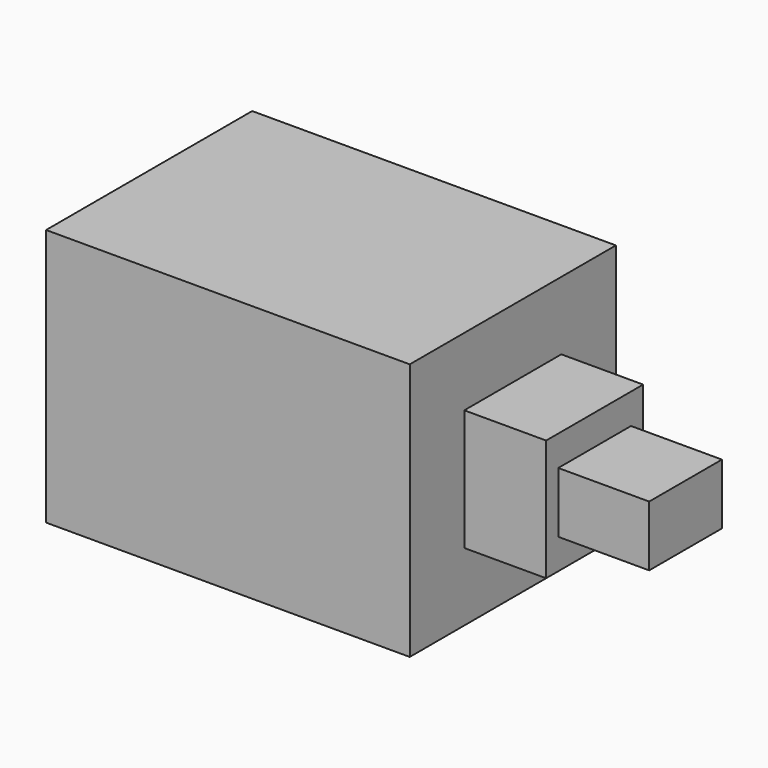
from build123d import *

# Parameters (mm, degrees)
BOX075_W                = 4
BOX075_H                = 4
BOX075_DEPTH            = 5.5
BOX076_W                = 8.5
BOX076_H                = 8.5
BOX076_DEPTH            = 3.5
BOX078_W                = 2
BOX078_H                = 3
BOX078_DEPTH            = 3
BOX074_W                = 8.5
BOX074_H                = 8.5
BOX074_DEPTH            = 8.5
BODY004_PLACEMENT_ANGLE = 90


with BuildPart() as plunger:
    # Box075 → Box075 (new body)
    with BuildSketch(Plane(origin=(-2, -2, 5.7), x_dir=(1, 0, 0), z_dir=(0, 0, 1))):
        with Locations((2, 2)):
            Rectangle(BOX075_W, BOX075_H)
    extrude(amount=BOX075_DEPTH)


with BuildPart() as pins:
    # Box076 → Box076 (new body)
    with BuildSketch(Plane(origin=(-4.25, -4.25, -3.5), x_dir=(1, 0, 0), z_dir=(0, 0, 1))):
        with Locations((4.25, 4.25)):
            Rectangle(BOX076_W, BOX076_H)
    extrude(amount=BOX076_DEPTH)


with BuildPart() as plunger001:
    # Box078 → Box078 (new body)
    with BuildSketch(Plane(origin=(-1, -1.5, 11.2), x_dir=(1, 0, 0), z_dir=(0, 0, 1))):
        with Locations((1, 1.5)):
            Rectangle(BOX078_W, BOX078_H)
    extrude(amount=BOX078_DEPTH)


with BuildPart() as switch:
    # Box074 → Box074 (new body)
    with BuildSketch(Plane(origin=(-4.25, -4.25, 0), x_dir=(1, 0, 0), z_dir=(0, 0, 1))):
        with Locations((4.25, 4.25)):
            Rectangle(BOX074_W, BOX074_H)
    extrude(amount=BOX074_DEPTH)

    # Fusion024: union plunger, pins, plunger001
    add(plunger.part)
    add(pins.part)
    add(plunger001.part)


with BuildPart() as switch_1:
    # Body004 placement: moved
    add(switch.part.moved(Location((17.5, 0, 8))).rotate(Axis((17.5, 0, 8), (0, 1, 0)), BODY004_PLACEMENT_ANGLE))


solid = switch_1.part
